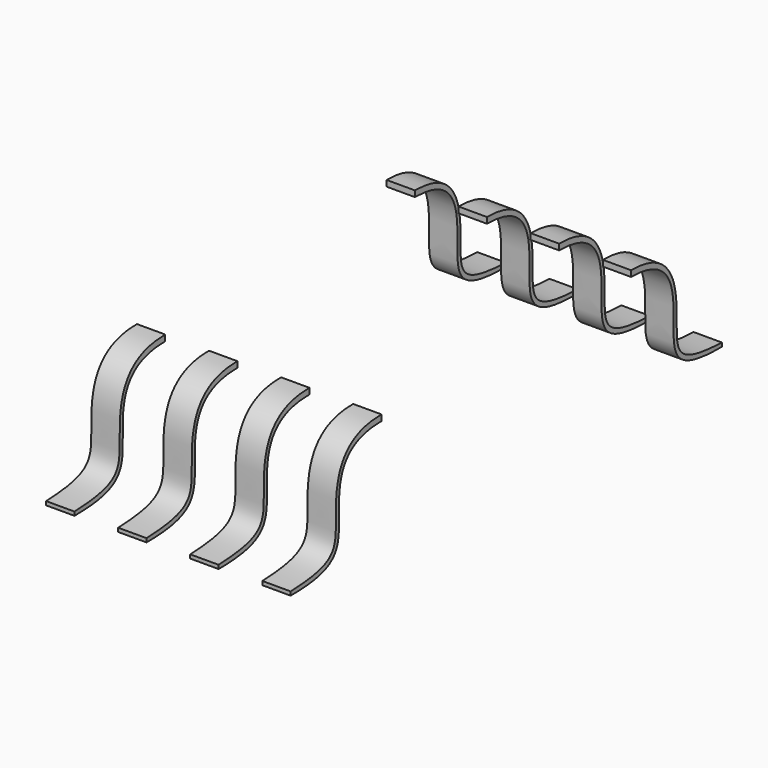
from build123d import *

# Parameters (mm, degrees)
PAD005_DEPTH            = 1
PAD006_DEPTH            = 1
PAD007_DEPTH            = 1
PAD008_DEPTH            = 1
BODY006_PLACEMENT_ANGLE = 180
PAD009_DEPTH            = 1
BODY007_PLACEMENT_ANGLE = 180
PAD010_DEPTH            = 1
BODY008_PLACEMENT_ANGLE = 180
PAD011_DEPTH            = 1
BODY009_PLACEMENT_ANGLE = 180
PAD004_DEPTH            = 1


with BuildPart() as body003:
    # Sketch006 → Pad005 (new body)
    with BuildSketch(Plane.YZ):
        with BuildLine():
            Line((11.5, 4), (11.5, 3.790186))
            add(Edge.make_bspline(
                [(11.5, 3.790186), (13.51949, 3.790186), (13.227978, 1), (13.5, 0), (15.5, 0)],
                knots=[0, 0, 0, 0, 0.5, 1, 1, 1, 1], degree=3))
            Line((15.5, 0), (15.5, 0.132828))
            add(Edge.make_bspline(
                [(11.5, 4), (13.51949, 4), (13.509479, 1.009735), (13.5, 0.209814), (15.5, 0.132828)],
                knots=[0, 0, 0, 0, 0.5, 1, 1, 1, 1], degree=3))
        make_face()
    extrude(amount=PAD005_DEPTH)


with BuildPart() as body003_1:
    # Body003 placement: moved
    add(body003.part.moved(Location((4.73, 0, 0))))


with BuildPart() as body004:
    # Sketch007 → Pad006 (new body)
    with BuildSketch(Plane.YZ):
        with BuildLine():
            Line((11.5, 4), (11.5, 3.790186))
            add(Edge.make_bspline(
                [(11.5, 3.790186), (13.51949, 3.790186), (13.227978, 1), (13.5, 0), (15.5, 0)],
                knots=[0, 0, 0, 0, 0.5, 1, 1, 1, 1], degree=3))
            Line((15.5, 0), (15.5, 0.132828))
            add(Edge.make_bspline(
                [(11.5, 4), (13.51949, 4), (13.509479, 1.009735), (13.5, 0.209814), (15.5, 0.132828)],
                knots=[0, 0, 0, 0, 0.5, 1, 1, 1, 1], degree=3))
        make_face()
    extrude(amount=PAD006_DEPTH)


with BuildPart() as body004_1:
    # Body004 placement: moved
    add(body004.part.moved(Location((2.19, 0, 0))))


with BuildPart() as body005:
    # Sketch008 → Pad007 (new body)
    with BuildSketch(Plane.YZ):
        with BuildLine():
            Line((11.5, 4), (11.5, 3.790186))
            add(Edge.make_bspline(
                [(11.5, 3.790186), (13.51949, 3.790186), (13.227978, 1), (13.5, 0), (15.5, 0)],
                knots=[0, 0, 0, 0, 0.5, 1, 1, 1, 1], degree=3))
            Line((15.5, 0), (15.5, 0.132828))
            add(Edge.make_bspline(
                [(11.5, 4), (13.51949, 4), (13.509479, 1.009735), (13.5, 0.209814), (15.5, 0.132828)],
                knots=[0, 0, 0, 0, 0.5, 1, 1, 1, 1], degree=3))
        make_face()
    extrude(amount=PAD007_DEPTH)


with BuildPart() as body005_1:
    # Body005 placement: moved
    add(body005.part.moved(Location((9.81, 0, 0))))


with BuildPart() as body006:
    # Sketch009 → Pad008 (new body)
    with BuildSketch(Plane.YZ):
        with BuildLine():
            Line((11.5, 4), (11.5, 3.790186))
            add(Edge.make_bspline(
                [(11.5, 3.790186), (13.51949, 3.790186), (13.227978, 1), (13.5, 0), (15.5, 0)],
                knots=[0, 0, 0, 0, 0.5, 1, 1, 1, 1], degree=3))
            Line((15.5, 0), (15.5, 0.132828))
            add(Edge.make_bspline(
                [(11.5, 4), (13.51949, 4), (13.509479, 1.009735), (13.5, 0.209814), (15.5, 0.132828)],
                knots=[0, 0, 0, 0, 0.5, 1, 1, 1, 1], degree=3))
        make_face()
    extrude(amount=PAD008_DEPTH)


with BuildPart() as body006_1:
    # Body006 placement: moved
    add(body006.part.moved(Location((3.19, 12, 0))).rotate(Axis((3.19, 12, 0), (0, 0, 1)), BODY006_PLACEMENT_ANGLE))


with BuildPart() as body007:
    # Sketch010 → Pad009 (new body)
    with BuildSketch(Plane.YZ):
        with BuildLine():
            Line((11.5, 4), (11.5, 3.790186))
            add(Edge.make_bspline(
                [(11.5, 3.790186), (13.51949, 3.790186), (13.227978, 1), (13.5, 0), (15.5, 0)],
                knots=[0, 0, 0, 0, 0.5, 1, 1, 1, 1], degree=3))
            Line((15.5, 0), (15.5, 0.132828))
            add(Edge.make_bspline(
                [(11.5, 4), (13.51949, 4), (13.509479, 1.009735), (13.5, 0.209814), (15.5, 0.132828)],
                knots=[0, 0, 0, 0, 0.5, 1, 1, 1, 1], degree=3))
        make_face()
    extrude(amount=PAD009_DEPTH)


with BuildPart() as body007_1:
    # Body007 placement: moved
    add(body007.part.moved(Location((5.73, 12, 0))).rotate(Axis((5.73, 12, 0), (0, 0, 1)), BODY007_PLACEMENT_ANGLE))


with BuildPart() as body008:
    # Sketch011 → Pad010 (new body)
    with BuildSketch(Plane.YZ):
        with BuildLine():
            Line((11.5, 4), (11.5, 3.790186))
            add(Edge.make_bspline(
                [(11.5, 3.790186), (13.51949, 3.790186), (13.227978, 1), (13.5, 0), (15.5, 0)],
                knots=[0, 0, 0, 0, 0.5, 1, 1, 1, 1], degree=3))
            Line((15.5, 0), (15.5, 0.132828))
            add(Edge.make_bspline(
                [(11.5, 4), (13.51949, 4), (13.509479, 1.009735), (13.5, 0.209814), (15.5, 0.132828)],
                knots=[0, 0, 0, 0, 0.5, 1, 1, 1, 1], degree=3))
        make_face()
    extrude(amount=PAD010_DEPTH)


with BuildPart() as body008_1:
    # Body008 placement: moved
    add(body008.part.moved(Location((8.27, 12, 0))).rotate(Axis((8.27, 12, 0), (0, 0, 1)), BODY008_PLACEMENT_ANGLE))


with BuildPart() as body009:
    # Sketch012 → Pad011 (new body)
    with BuildSketch(Plane.YZ):
        with BuildLine():
            Line((11.5, 4), (11.5, 3.790186))
            add(Edge.make_bspline(
                [(11.5, 3.790186), (13.51949, 3.790186), (13.227978, 1), (13.5, 0), (15.5, 0)],
                knots=[0, 0, 0, 0, 0.5, 1, 1, 1, 1], degree=3))
            Line((15.5, 0), (15.5, 0.132828))
            add(Edge.make_bspline(
                [(11.5, 4), (13.51949, 4), (13.509479, 1.009735), (13.5, 0.209814), (15.5, 0.132828)],
                knots=[0, 0, 0, 0, 0.5, 1, 1, 1, 1], degree=3))
        make_face()
    extrude(amount=PAD011_DEPTH)


with BuildPart() as body009_1:
    # Body009 placement: moved
    add(body009.part.moved(Location((10.81, 12, 0))).rotate(Axis((10.81, 12, 0), (0, 0, 1)), BODY009_PLACEMENT_ANGLE))


with BuildPart() as fusion:
    # Sketch005 → Pad004 (new body)
    with BuildSketch(Plane.YZ):
        with BuildLine():
            Line((11.5, 4), (11.5, 3.790186))
            add(Edge.make_bspline(
                [(11.5, 3.790186), (13.51949, 3.790186), (13.227978, 1), (13.5, 0), (15.5, 0)],
                knots=[0, 0, 0, 0, 0.5, 1, 1, 1, 1], degree=3))
            Line((15.5, 0), (15.5, 0.132828))
            add(Edge.make_bspline(
                [(11.5, 4), (13.51949, 4), (13.509479, 1.009735), (13.5, 0.209814), (15.5, 0.132828)],
                knots=[0, 0, 0, 0, 0.5, 1, 1, 1, 1], degree=3))
        make_face()
    extrude(amount=PAD004_DEPTH)


with BuildPart() as fusion_1:
    # Body002 placement: moved
    add(fusion.part.moved(Location((7.27, 0, 0))))

    # Fusion: union Body003, Body004, Body005, Body006, Body007, Body008, Body009
    add(body003_1.part)
    add(body004_1.part)
    add(body005_1.part)
    add(body006_1.part)
    add(body007_1.part)
    add(body008_1.part)
    add(body009_1.part)


solid = fusion_1.part
